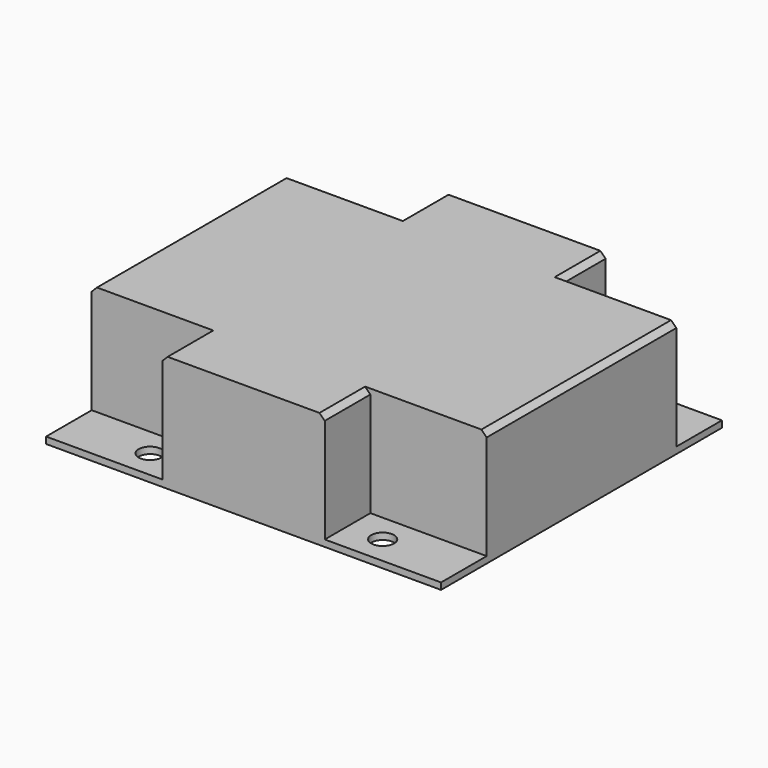
from build123d import *

# Parameters (mm, degrees)
F0_W     = 90
F0_H     = 80
F1_DEPTH = 1.5
F3_DEPTH = 25
F4_D     = 5.2
F4_DEPTH = 5
F4_TIP   = 1.5622376095
F5_SIZE  = 1.2


with BuildPart() as f1:
    # F0 (on Top) → F1 (new body)
    with BuildSketch(Plane.XY):
        with Locations((4.5240691602, -8.1039099395)):
            Rectangle(F0_W, F0_H)
    extrude(amount=F1_DEPTH)

    # F2 (on face) → F3 (join)
    with BuildSketch(Plane.XY.offset(1.5)):
        Polygon((0, 31.8960900605), (-13.9759308398, 31.8960900605), (-13.9759308398, 18.8960900605), (-40.4759308398, 18.8960900605), (-40.4759308398, -35.1039099395), (-13.9759308398, -35.1039099395), (-13.9759308398, -48.1039099395), (23.0240691602, -48.1039099395), (23.0240691602, -35.1039099395), (49.5240691602, -35.1039099395), (49.5240691602, 18.8960900605), (23.0240691602, 18.8960900605), (23.0240691602, 31.8960900605), align=None)
    extrude(amount=F3_DEPTH)

    # F4
    with Locations(Plane.XY.offset(1.5)):
        with Locations((-21.9759307802, 25.3960900605), (31.0240691602, 25.3960900605), (31.0240691602, -41.6039099395), (-21.9759307802, -41.6039099395)):
            Hole(F4_D / 2, depth=F4_DEPTH)
            with Locations((0, 0, -(F4_DEPTH + F4_TIP / 2))):  # 118° drill point
                Cone(0, F4_D / 2, F4_TIP, mode=Mode.SUBTRACT)

    # F5
    f5_edges = [f1.edges().sort_by_distance(p)[0] for p in [
        (-40.475931, -8.10391, 26.5),
        (-13.975931, -41.60391, 26.5),
        (-13.975931, 25.39609, 26.5),
        (23.024069, 25.39609, 26.5),
        (23.024069, -41.60391, 26.5),
        (49.524069, -8.10391, 26.5),
    ]]
    chamfer(f5_edges, length=F5_SIZE)


solid = f1.part
